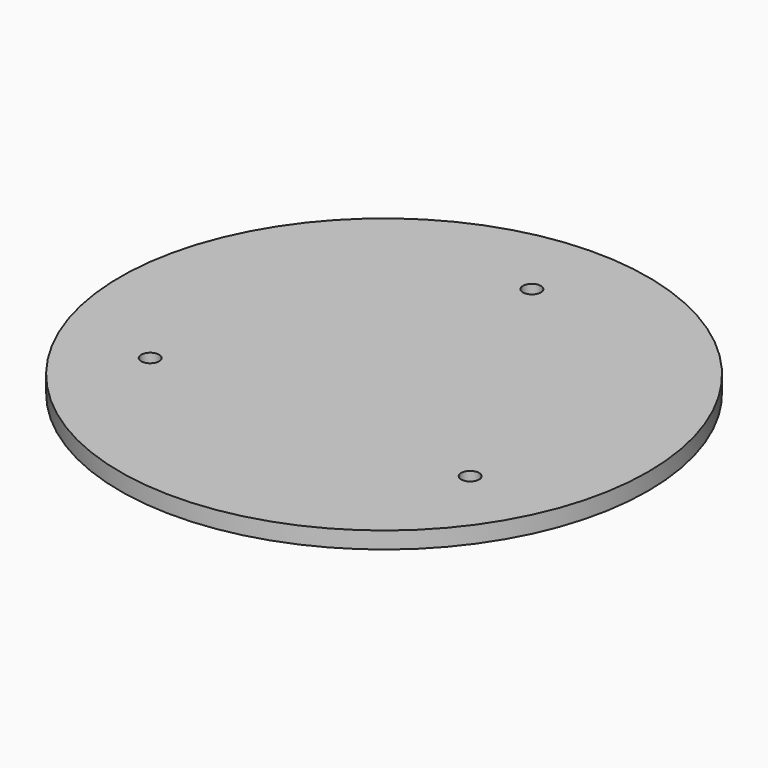
from build123d import *

# Parameters (mm, degrees)
F0_R     = 100
F1_DEPTH = 6.35
F2_D     = 6.8


with BuildPart() as f1:
    # F0 (on Top) → F1 (new body)
    with BuildSketch(Plane.XY):
        Circle(F0_R)
    extrude(amount=F1_DEPTH)

    # F2 (through all)
    with Locations(Plane(origin=(0, 0, 0), x_dir=(1, 0, 0), z_dir=(0, 0, -1))):
        with Locations((60.62, 35), (0, -70), (-60.62, 35)):
            Hole(F2_D / 2)


solid = f1.part
